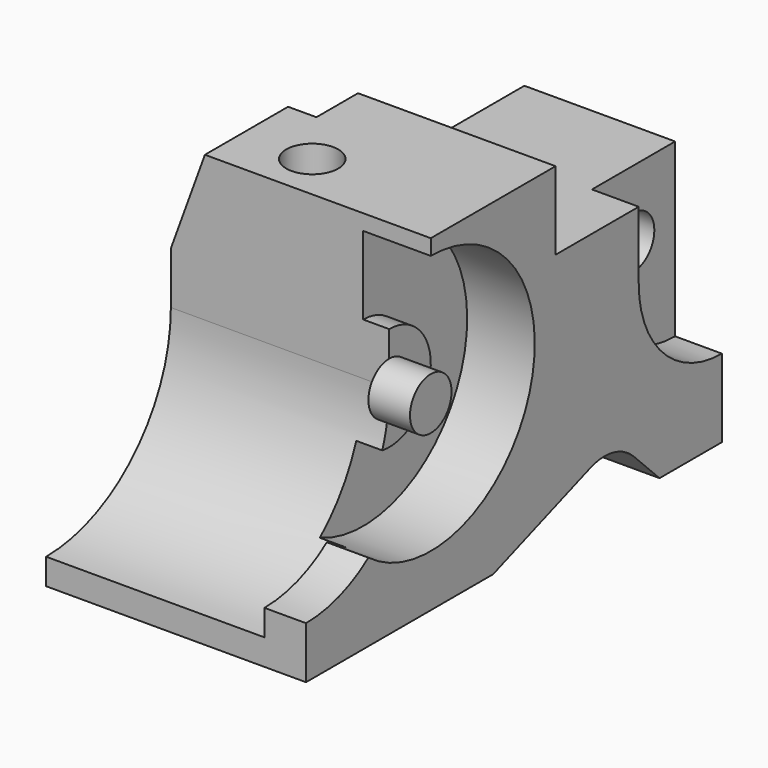
from build123d import *

# Parameters (mm, degrees)
F1_DEPTH  = 50
F3_DEPTH  = 63.001
F5_DEPTH  = 100.001
F7_DEPTH  = 42
F8_R      = 25
F8_R_2    = 10
F9_DEPTH  = 13
F10_R     = 10
F10_R_2   = 5
F11_DEPTH = 8
F13_DEPTH = 25
F15_DEPTH = 50.001
F17_DEPTH = 9
F18_R     = 5
F19_DEPTH = 41.001
F20_R     = 5
F21_DEPTH = 63.001


with BuildPart() as f1:
    # F0 (on Right) → F1 (new body)
    with BuildSketch(Plane.YZ):
        Polygon((30, 28), (-30, 28), (-30, -35), (70, -35), (70, 13), (30, 13), align=None)
    extrude(amount=F1_DEPTH)

    # F2 (on face) → F3 (cut, through all)
    with BuildSketch(Plane.XY.offset(28)):
        Polygon((0, 30), (0, 20), (12, 20), (12, 70), (0, 70), align=None)
    extrude(amount=-F3_DEPTH, mode=Mode.SUBTRACT)

    # F4 (on face) → F5 (cut, through all)
    with BuildSketch(Plane.XZ.offset(30)):
        Polygon((0, 10), (6.551464, 28), (0, 28), align=None)
    extrude(amount=-F5_DEPTH, mode=Mode.SUBTRACT)

    # F6 (on face) → F7 (cut)
    with BuildSketch(Plane(origin=(0, 0, 0), x_dir=(0, -1, 0), z_dir=(-1, 0, 0))):
        with BuildLine():
            Line((0, 28), (0, 0))
            ThreePointArc((0, 0), (8.786797, -21.213203), (30, -30))
            Line((30, -30), (30, 10))
            Line((30, 10), (30, 28))
            Line((30, 28), (19.22967, 28))
            Line((19.22967, 28), (0, 28))
        make_face()
    extrude(amount=-F7_DEPTH, mode=Mode.SUBTRACT)

    # F8 (on face) → F9 (cut)
    with BuildSketch(Plane.YZ.offset(50)):
        Circle(F8_R)
        Circle(F8_R_2, mode=Mode.SUBTRACT)
    extrude(amount=-F9_DEPTH, mode=Mode.SUBTRACT)

    # F10 (on face) → F11 (cut)
    with BuildSketch(Plane.YZ.offset(50)):
        Circle(F10_R)
        Circle(F10_R_2, mode=Mode.SUBTRACT)
    extrude(amount=-F11_DEPTH, mode=Mode.SUBTRACT)

    # F12 (on face) → F13 (cut)
    with BuildSketch(Plane.YZ.offset(50)):
        with BuildLine():
            Line((-30, 28), (-30, -25))
            ThreePointArc((-30, -25), (-19.18433, -22.539327), (-10.497765, -15.641702))
            Line((-10.497765, -15.641702), (-10.497765, 7.595585))
            Line((-10.497765, 7.595585), (0, 25))
            Line((0, 25), (0, 28))
            Line((0, 28), (-30, 28))
        make_face()
    extrude(amount=-F13_DEPTH, mode=Mode.SUBTRACT)

    # F14 (on face) → F15 (cut, through all)
    with BuildSketch(Plane.YZ.offset(50)):
        with BuildLine():
            Line((38.339651, -26.505062), (15, -35))
            Line((15, -35), (55, -35))
            Line((55, -35), (48.83092, -28.83092))
            ThreePointArc((48.83092, -28.83092), (43.924249, -26.139028), (38.339651, -26.505062))
        make_face()
    extrude(amount=-F15_DEPTH, mode=Mode.SUBTRACT)

    # F16 (on face) → F17 (cut)
    with BuildSketch(Plane.YZ.offset(50)):
        with BuildLine():
            Line((50, 13), (50, 0))
            ThreePointArc((50, 0), (55.857864, -14.142136), (70, -20))
            Line((70, -20), (70, 13))
            Line((70, 13), (50, 13))
        make_face()
    extrude(amount=-F17_DEPTH, mode=Mode.SUBTRACT)

    # F18 (on face) → F19 (cut, through all)
    with BuildSketch(Plane.YZ.offset(41)):
        with Locations((60, 0)):
            Circle(F18_R)
    extrude(amount=-F19_DEPTH, mode=Mode.SUBTRACT)

    # F20 (on face) → F21 (cut, through all)
    with BuildSketch(Plane.XY.offset(28)):
        with Locations((20, 9)):
            Circle(F20_R)
    extrude(amount=-F21_DEPTH, mode=Mode.SUBTRACT)


solid = f1.part
